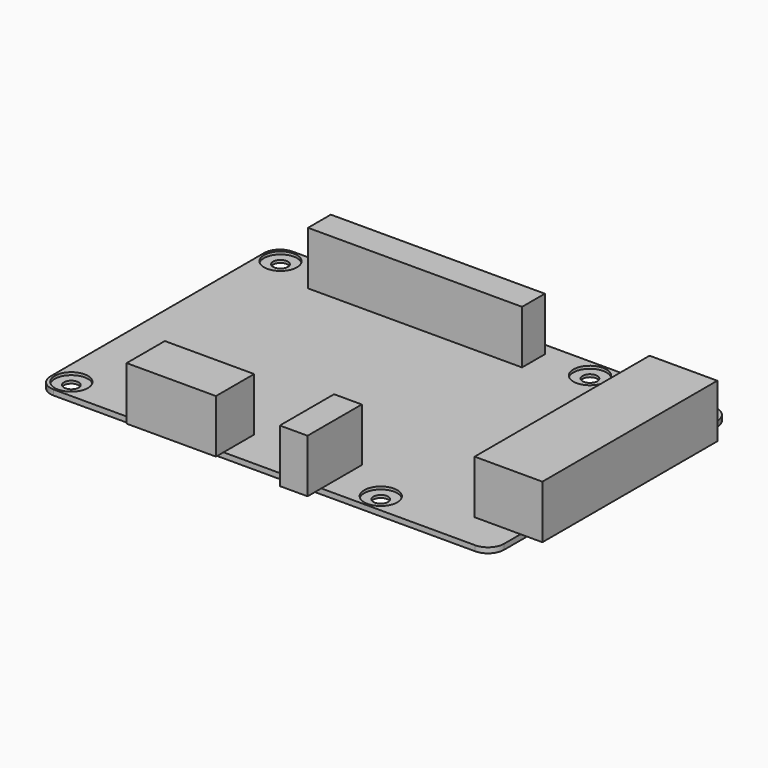
from build123d import *

# Parameters (mm, degrees)
F1_DEPTH       = 1
F2_R           = 3
F4_D           = 2.75
F4_CBORE_D     = 6.2
F4_CBORE_DEPTH = 0.5
F5_W           = 40.115128
F5_H           = 5.339066
F5_W_2         = 8.616518
F5_H_2         = 40.98092
F5_W_3         = 4.081794
F5_W_4         = 16.738685
F5_H_3         = 7.16661
F5_H_4         = 1.77993
F5_W_5         = 5.194765
F5_H_5         = 9.475394
F5_H_6         = 3.222921
F6_DEPTH       = 10


with BuildPart() as f1:
    # F0 (on Top) → F1 (new body)
    with BuildSketch(Plane.XY):
        Polygon((42.5, -28), (-42.5, 28), (-42.5, -28), align=None)
        Polygon((42.5, 28), (-42.5, 28), (42.5, -28), align=None)
    extrude(amount=F1_DEPTH)

    # F2
    f2_edges = [f1.edges().sort_by_distance(p)[0] for p in [
        (-42.5, -28, 0.5),
        (-42.5, 28, 0.5),
        (42.5, -28, 0.5),
        (42.5, 28, 0.5),
    ]]
    fillet(f2_edges, radius=F2_R)

    # F4 (through all)
    with Locations(Plane.XY.offset(1)):
        with Locations((-39, 24.5), (-39, -24.5), (19, -24.5), (19, 24.5)):
            CounterBoreHole(F4_D / 2, F4_CBORE_D / 2, F4_CBORE_DEPTH)

    # F5 (on face) → F6 (join)
    with BuildSketch(Plane.XY.offset(1)):
        with Locations((-10.416318, 22.961362)):
            Rectangle(F5_W, F5_H)
        with Locations((38.191741, -0.631528)):
            Rectangle(F5_W_2, F5_H_2)
        with Locations((44.540897, -0.631528)):
            Rectangle(F5_W_3, F5_H_2)
        with Locations((-16.04398, -24.416695)):
            Rectangle(F5_W_4, F5_H_3)
        with Locations((-16.04398, -28.889965)):
            Rectangle(F5_W_4, F5_H_4)
        with Locations((8.053955, -23.262303)):
            Rectangle(F5_W_5, F5_H_5)
        with Locations((8.053955, -29.61146)):
            Rectangle(F5_W_5, F5_H_6)
    extrude(amount=F6_DEPTH)


solid = f1.part
